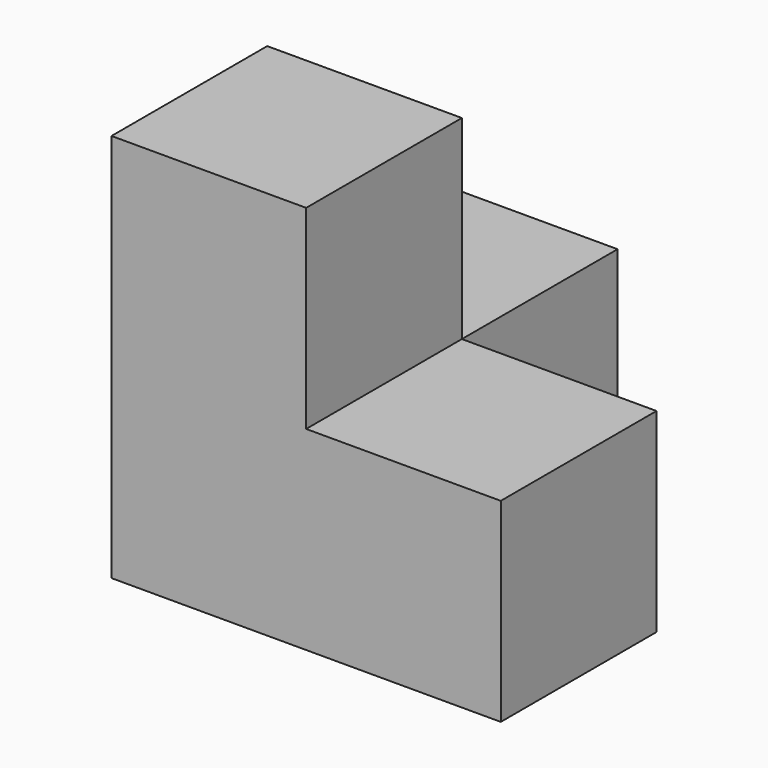
from build123d import *

# Parameters (mm, degrees)
BOX001_W     = 10
BOX001_H     = 10
BOX001_DEPTH = 10
BOX002_W     = 10
BOX002_H     = 10
BOX002_DEPTH = 10
BOX003_W     = 10
BOX003_H     = 10
BOX003_DEPTH = 20
BOX_W        = 10
BOX_H        = 10
BOX_DEPTH    = 10


with BuildPart() as cubo2:
    # Box001 → Box001 (new body)
    with BuildSketch(Plane.XY):
        with Locations((5, 5)):
            Rectangle(BOX001_W, BOX001_H)
    extrude(amount=BOX001_DEPTH)


with BuildPart() as cubo3:
    # Box002 → Box002 (new body)
    with BuildSketch(Plane(origin=(10, 0, 0), x_dir=(1, 0, 0), z_dir=(0, 0, 1))):
        with Locations((5, 5)):
            Rectangle(BOX002_W, BOX002_H)
    extrude(amount=BOX002_DEPTH)


with BuildPart() as cubo4:
    # Box003 → Box003 (new body)
    with BuildSketch(Plane.XY):
        with Locations((5, 5)):
            Rectangle(BOX003_W, BOX003_H)
    extrude(amount=BOX003_DEPTH)


with BuildPart() as obj1:
    # Box → Box (new body)
    with BuildSketch(Plane(origin=(0, 10, 0), x_dir=(1, 0, 0), z_dir=(0, 0, 1))):
        with Locations((5, 5)):
            Rectangle(BOX_W, BOX_H)
    extrude(amount=BOX_DEPTH)

    # Fusion: union cubo2, cubo3, cubo4
    add(cubo2.part)
    add(cubo3.part)
    add(cubo4.part)


solid = obj1.part
